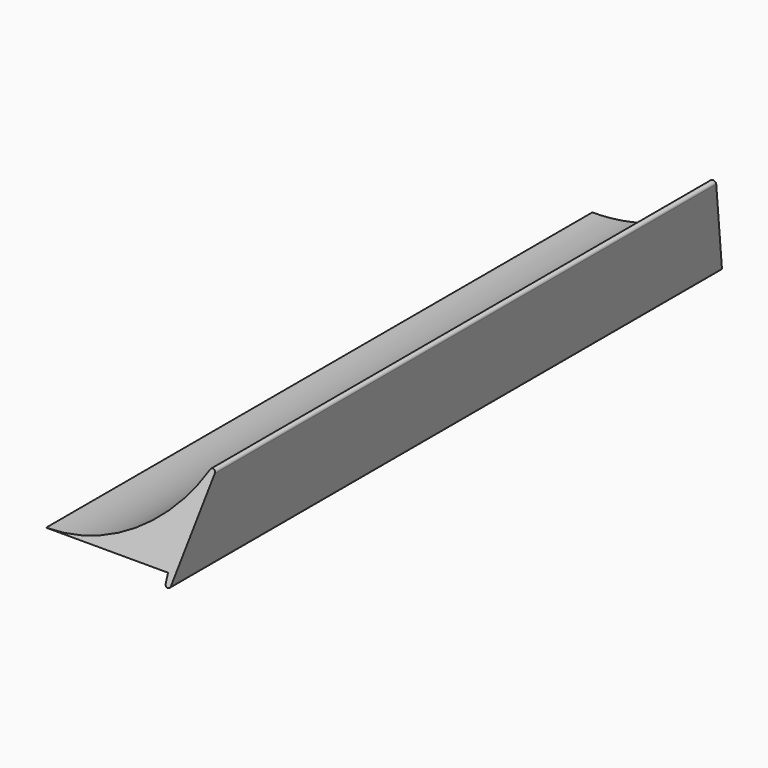
from build123d import *

# Parameters (mm, degrees)
F1_DEPTH = 86.868
F2_R     = 0.654509
F4_DEPTH = 63.246


with BuildPart() as f1:
    # F0 (on Front) → F1 (new body, symmetric)
    with BuildSketch(Plane.XZ):
        with BuildLine():
            ThreePointArc((37.085507, 26.82781), (22.84608, 7.465189), (0, 0))
            Line((0, 0), (29.826211, 0))
            Line((29.826211, 0), (29.826211, -8.521775))
            Line((29.826211, -8.521775), (37.085507, 26.82781))
        make_face()
    extrude(amount=F1_DEPTH, both=True)

    # F2
    f2_edges = [f1.edges().sort_by_distance(p)[0] for p in [
        (37.085507, 0, 26.82781),
        (29.826211, 0, -8.521775),
    ]]
    fillet(f2_edges, radius=F2_R)

    # F3 (on Right) → F4 (cut)
    with BuildSketch(Plane.YZ):
        Polygon((-90.376258, -20.586515), (-65.263629, 54.75137), (-99.720493, 31.098777), align=None)
        Polygon((99.720493, 31.098777), (65.263629, 54.75137), (90.376258, -20.586515), align=None)
    extrude(amount=F4_DEPTH, mode=Mode.SUBTRACT)


solid = f1.part
